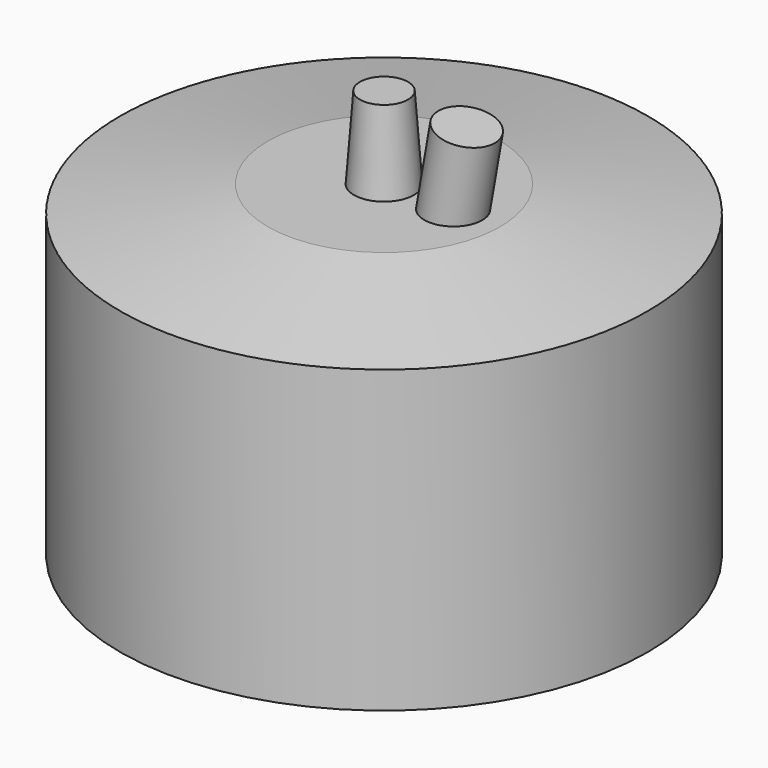
from build123d import *

# Parameters (mm, degrees)
F0_W      = 131.8605814759
F0_H      = 150
F2_W      = 58
F2_H      = 12.6709589615
F5_R      = 15
F7_R      = 12
F10_R     = 14.335969035
F11_DEPTH = 35
F12_T     = -2.5
F13_T     = -2.5


with BuildPart() as f1:
    # F0 (on Front) → F1 (revolve)
    with BuildSketch(Plane.XZ):
        with Locations((65.930290738, -75.3526543635)):
            Rectangle(F0_W, F0_H)
    revolve(axis=Axis((0, 0, -75.1763271818), (0, 0, -1)))

    # F12
    f12_openings = [f1.faces().sort_by_distance(p)[0] for p in [
        (0, 0, -150.352654),
    ]]
    offset(amount=F12_T, openings=f12_openings)


with BuildPart() as f4:
    # F2 (on Front) → F4 (revolve)
    with BuildSketch(Plane.XZ):
        Polygon((-58, 0), (-58, 12.6709589615), (-131.8605814759, -0.3526543635), align=None)
        with Locations((-29, 6.3354794807)):
            Rectangle(F2_W, F2_H)
    revolve(axis=Axis((0, 0, 31.8354794807), (0, 0, -1)))


with BuildPart() as f8:
    # F5 (on plane+point) → F8 section 0
    with BuildSketch(Plane.XY.offset(12.6709589615)):
        Circle(F5_R)
    # F7 (on offset) → F8 section 1
    with BuildSketch(Plane.XY.offset(53.6709589615)):
        Circle(F7_R)
    loft()


with BuildPart() as f11:
    # F10 (on face) → F11 (new body, symmetric)
    with BuildSketch(Plane(origin=(3.9157755973, 0, 22.2074669544), x_dir=(0.984807753, 0, -0.1736481777), z_dir=(-0.1736481777, 0, -0.984807753))):
        with Locations((31.7807346582, 0)):
            Circle(F10_R)
    extrude(amount=F11_DEPTH, both=True)

    # F13
    f13_openings = [f11.faces().sort_by_distance(p)[0] for p in [
        (29.136003, 0, -17.779471),
    ]]
    offset(amount=F13_T, openings=f13_openings)


solid = Compound([f1.part, f4.part, f8.part, f11.part])
